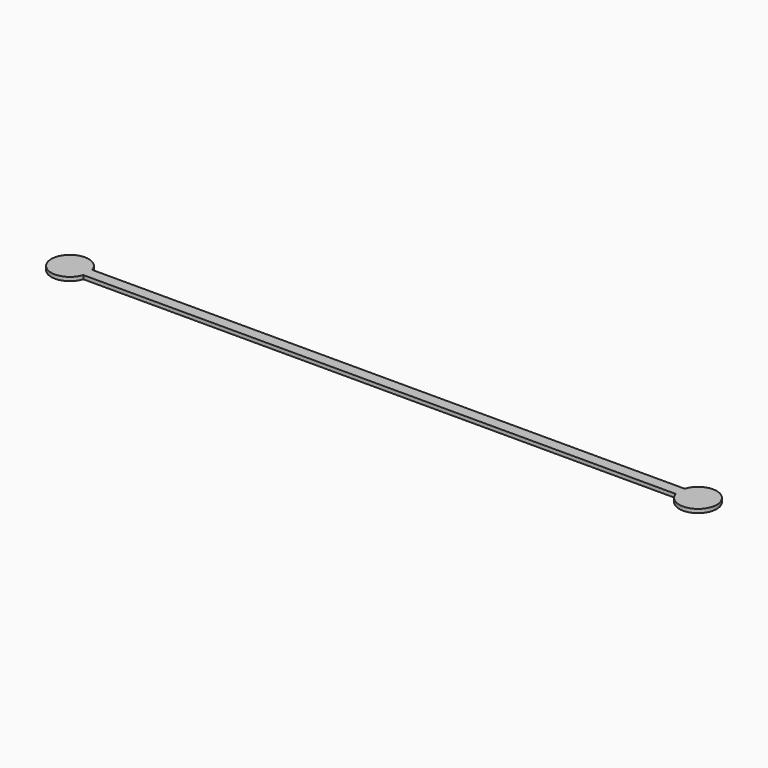
from build123d import *

# Parameters (mm, degrees)
PAD_DEPTH = 1


with BuildPart() as part:
    # Sketch → Pad (new body)
    with BuildSketch(Plane.XY):
        with BuildLine():
            ThreePointArc((4.769696, 1.5), (-5, 0), (4.769696, -1.5))
            Line((163.230304, -1.5), (4.769696, -1.5))
            ThreePointArc((163.230304, -1.5), (173, 0), (163.230304, 1.5))
            Line((4.769696, 1.5), (163.230304, 1.5))
        make_face()
    extrude(amount=PAD_DEPTH)


solid = part.part
